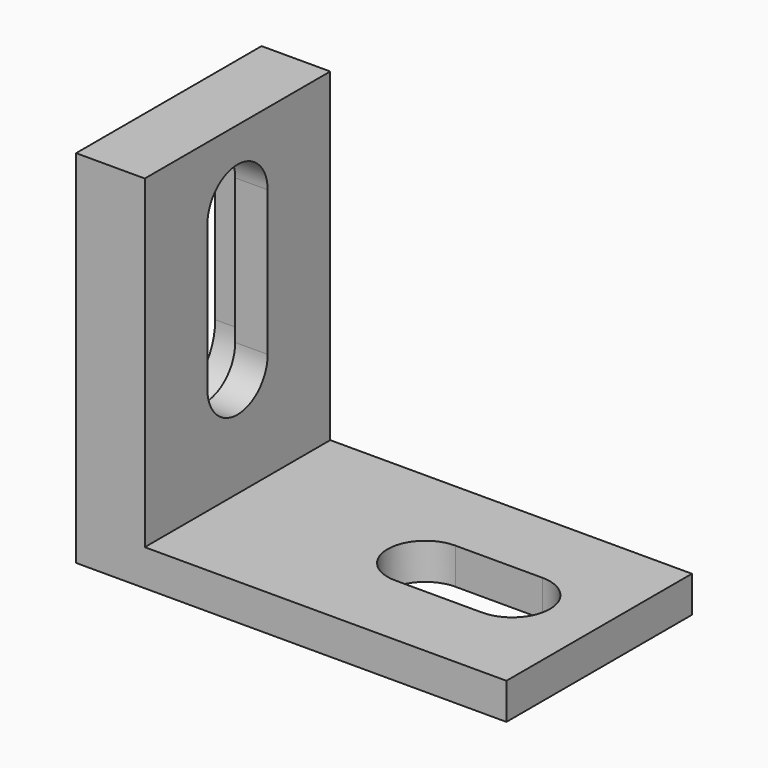
from build123d import *

# Parameters (mm, degrees)
F1_DEPTH = 20.32
F3_DEPTH = 15.24
F5_DEPTH = 25.4
F6_DEPTH = 3.175


with BuildPart() as f1:
    # F0 (on Front) → F1 (new body)
    with BuildSketch(Plane.XZ):
        Polygon((0, 31.623), (0, 0), (37.719, 0), (37.719, 3.175), (6.0198, 3.175), (6.0198, 31.623), align=None)
    extrude(amount=F1_DEPTH)

    # F2 (on face) → F3 (cut)
    with BuildSketch(Plane(origin=(0, 0, 0), x_dir=(1, 0, 0), z_dir=(0, 0, -1))):
        with BuildLine():
            Line((22.479, 6.858), (30.099, 6.858))
            ThreePointArc((30.099, 6.858), (33.401, 10.16), (30.099, 13.462))
            Line((30.099, 13.462), (22.479, 13.462))
            ThreePointArc((22.479, 13.462), (19.177, 10.16), (22.479, 6.858))
        make_face()
    extrude(amount=-F3_DEPTH, mode=Mode.SUBTRACT)

    # F4 (on face) → F5 (cut)
    with BuildSketch(Plane(origin=(0, 0, 0), x_dir=(0, -1, 0), z_dir=(-1, 0, 0))):
        with BuildLine():
            Line((13.462, 12.573), (13.462, 25.273))
            ThreePointArc((13.462, 25.273), (10.16, 28.575), (6.858, 25.273))
            Line((6.858, 25.273), (6.858, 12.573))
            ThreePointArc((6.858, 12.573), (10.16, 9.271), (13.462, 12.573))
        make_face()
    extrude(amount=-F5_DEPTH, mode=Mode.SUBTRACT)

    # F4 (on face) → F6 (cut)
    with BuildSketch(Plane(origin=(0, 0, 0), x_dir=(0, -1, 0), z_dir=(-1, 0, 0))):
        with BuildLine():
            Line((15.24, 12.573), (15.24, 25.273))
            ThreePointArc((15.24, 25.273), (10.16, 30.353), (5.08, 25.273))
            Line((5.08, 25.273), (5.08, 12.573))
            ThreePointArc((5.08, 12.573), (10.16, 7.493), (15.24, 12.573))
        make_face()
        with BuildLine():
            ThreePointArc((6.858, 25.273), (10.16, 28.575), (13.462, 25.273))
            Line((13.462, 25.273), (13.462, 12.573))
            ThreePointArc((13.462, 12.573), (10.16, 9.271), (6.858, 12.573))
            Line((6.858, 12.573), (6.858, 25.273))
        make_face(mode=Mode.SUBTRACT)
    extrude(amount=-F6_DEPTH, mode=Mode.SUBTRACT)


solid = f1.part
